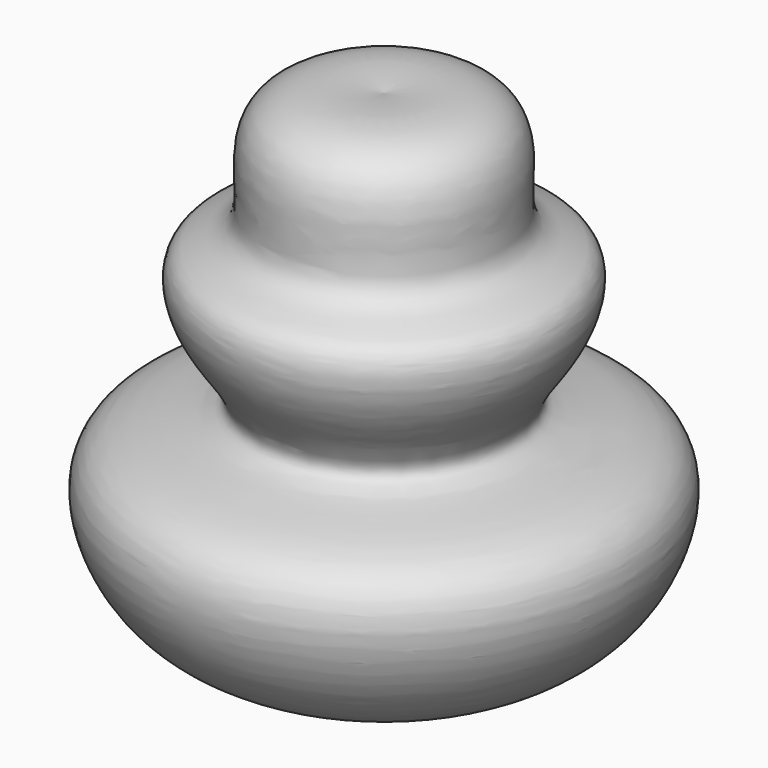
from build123d import *


with BuildPart() as f1:
    # F0 (on Right) → F1 (revolve)
    with BuildSketch(Plane.YZ):
        with BuildLine():
            add(Edge.make_bspline(
                [(0, 0), (-15.0017050018, 0), (-26.5469835115, 6.7217803629), (-28.9058668603, 23.7499739294), (-9.5790831588, 23.0342682662), (-18.7906487911, 32.0995227673), (-20.174970899, 41.1293768902), (-8.854735193, 41.0293241339), (-17.1327053786, 57.9310917114), (0, 55.3660083206)],
                knots=[0, 0, 0, 0, 0.2158736765, 0.3514015328, 0.4932625971, 0.6113195873, 0.7232449987, 0.8262067354, 1, 1, 1, 1], degree=3))
            Line((0, 0), (0, 55.3660083206))
        make_face()
    revolve(axis=Axis((0, 0, 27.6830041603), (0, 0, -1)))


solid = f1.part
